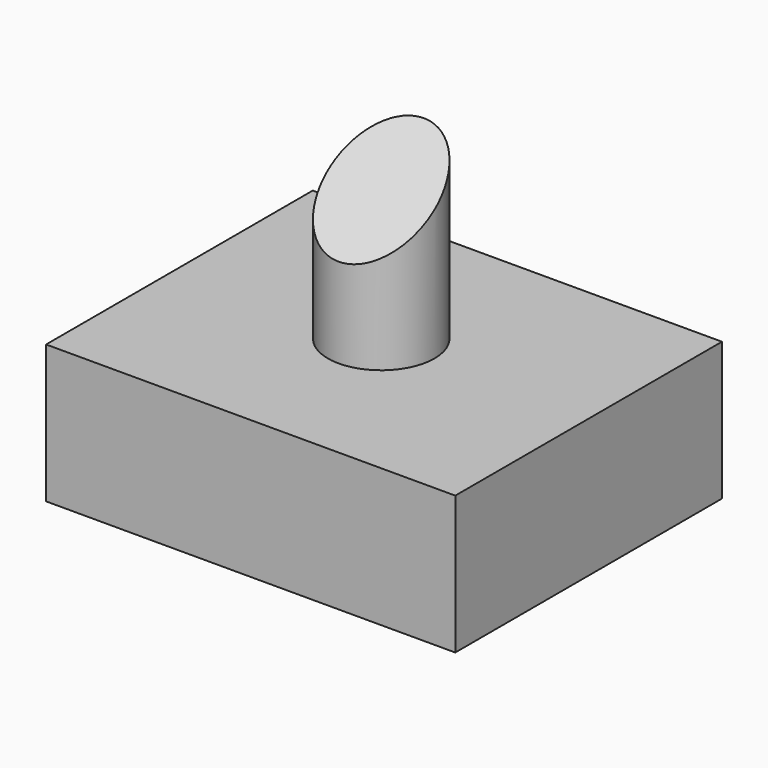
from build123d import *

# Parameters (mm, degrees)
F0_W     = 75.241194
F0_H     = 61.288014
F0_R     = 9.804141
F1_DEPTH = 25.4
F2_DEPTH = 57.15
F4_DEPTH = 23.876


with BuildPart() as f1:
    # F0 (on Top) → F1 (new body)
    with BuildSketch(Plane.XY):
        with Locations((1.148045, 11.833709)):
            Rectangle(F0_W, F0_H)
        with Locations((0, 12.628511)):
            Circle(F0_R, mode=Mode.SUBTRACT)
    extrude(amount=F1_DEPTH)

    # F0 (on Top) → F2 (join)
    with BuildSketch(Plane.XY):
        with Locations((0, 12.628511)):
            Circle(F0_R)
    extrude(amount=F2_DEPTH)

    # F3 (on Right) → F4 (cut, symmetric)
    with BuildSketch(Plane.YZ):
        Polygon((-5.740232, 67.381494), (-4.327252, 36.295928), (35.589438, 67.381494), align=None)
    extrude(amount=F4_DEPTH, both=True, mode=Mode.SUBTRACT)


solid = f1.part
